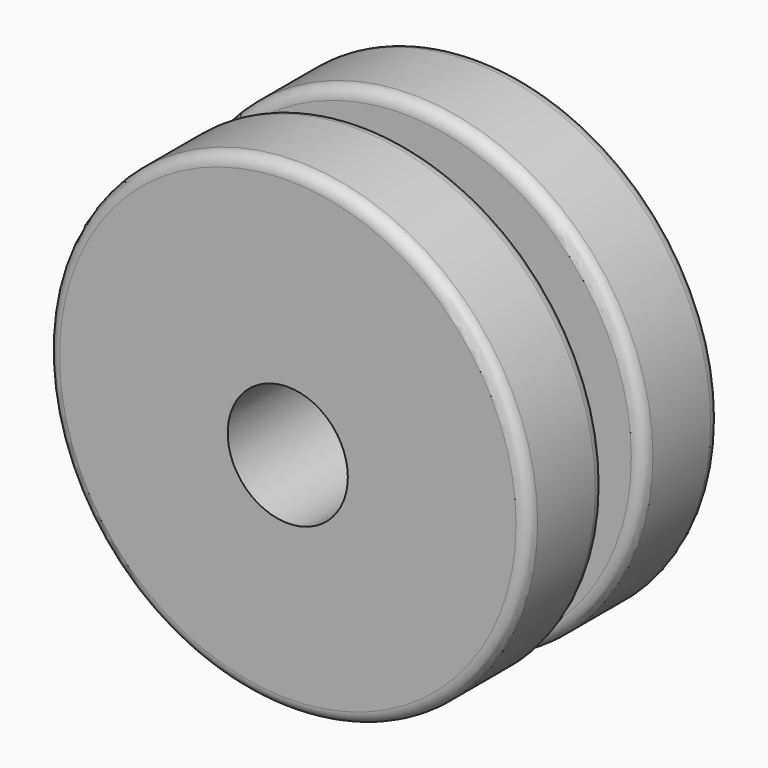
from build123d import *

# Parameters (mm, degrees)
F0_R     = 100
F1_DEPTH = 40
F2_R     = 60
F3_DEPTH = 20
F4_R     = 100
F5_DEPTH = 40
F6_R     = 25
F7_DEPTH = 100
F8_R     = 5


with BuildPart() as f1:
    # F0 (on Front) → F1 (new body)
    with BuildSketch(Plane.XZ):
        Circle(F0_R)
    extrude(amount=F1_DEPTH)

    # F2 (on face) → F3 (join)
    with BuildSketch(Plane.XZ.offset(40)):
        Circle(F2_R)
    extrude(amount=F3_DEPTH)

    # F4 (on face) → F5 (join)
    with BuildSketch(Plane.XZ.offset(60)):
        Circle(F4_R)
    extrude(amount=F5_DEPTH)

    # F6 (on face) → F7 (cut)
    with BuildSketch(Plane.XZ.offset(100)):
        with Locations((0, -5.704428)):
            Circle(F6_R)
    extrude(amount=-F7_DEPTH, mode=Mode.SUBTRACT)

    # F8
    f8_edges = [f1.edges().sort_by_distance(p)[0] for p in [
        (-100, -100, 0),
        (-100, -60, 0),
        (-100, -40, 0),
        (-100, 0, 0),
    ]]
    fillet(f8_edges, radius=F8_R)


solid = f1.part
